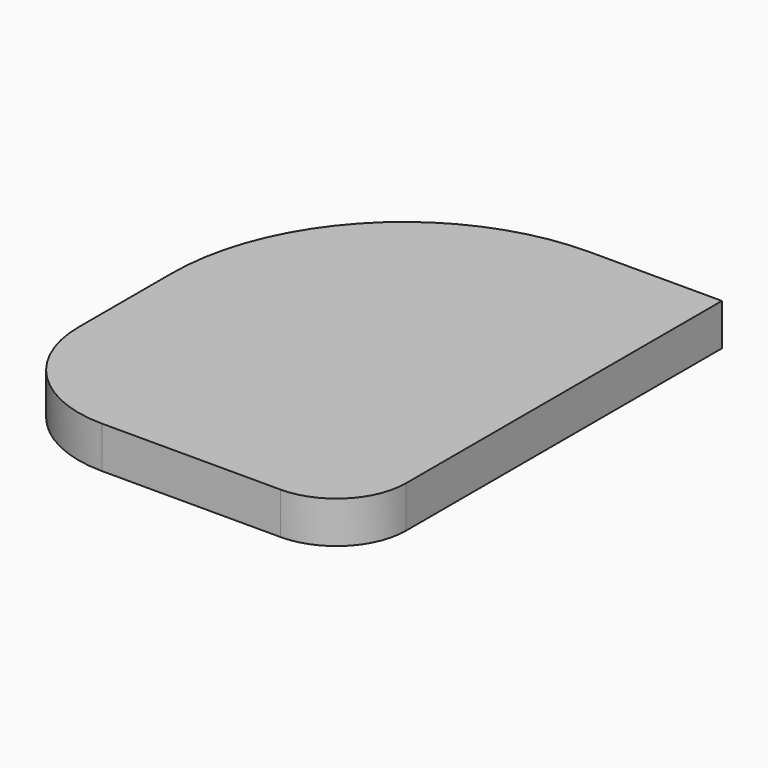
from build123d import *

# Parameters (mm, degrees)
F1_DEPTH = 18


with BuildPart() as f1:
    # F0 (on Top) → F1 (new body)
    with BuildSketch(Plane.XY):
        with BuildLine():
            Line((-28.488382, -100), (48.488382, -100))
            ThreePointArc((48.488382, -100), (69.701586, -91.213203), (78.488382, -70))
            Line((78.488382, -70), (78.488382, 100))
            Line((78.488382, 100), (21.511618, 100))
            ThreePointArc((21.511618, 100), (-49.19906, 70.710678), (-78.488382, 0))
            Line((-78.488382, 0), (-78.488382, -50))
            ThreePointArc((-78.488382, -50), (-63.843721, -85.355339), (-28.488382, -100))
        make_face()
    extrude(amount=F1_DEPTH)


solid = f1.part
